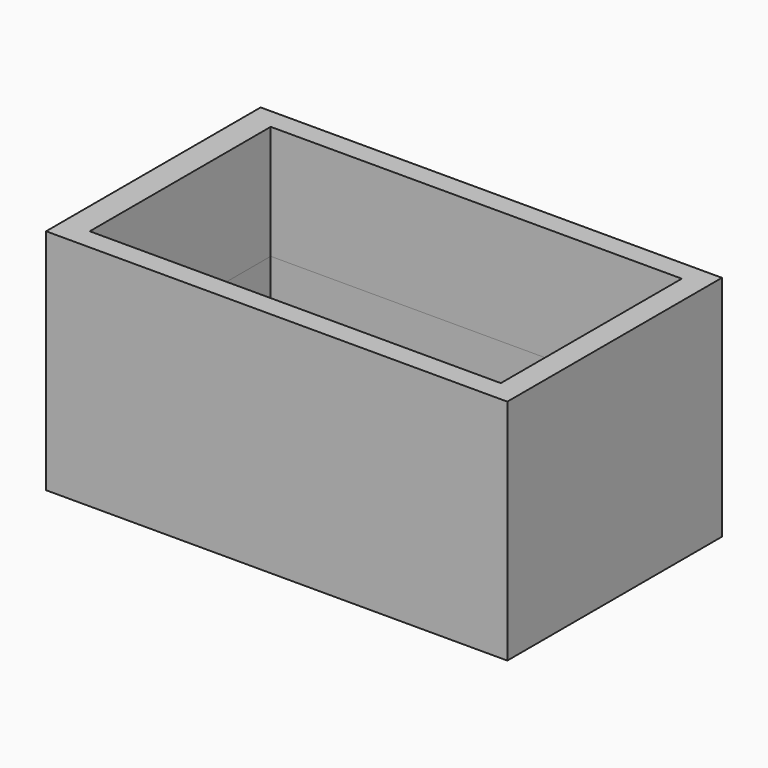
from build123d import *

# Parameters (mm, degrees)
F0_W        = 102.782786
F0_H        = 59.772734
F0_W_2      = 91.602149
F0_H_2      = 50.407235
F1_DEPTH    = 25.4
F1_FACE_W   = 102.782786
F1_FACE_H   = 59.772734
F1_FACE_W_2 = 91.602148
F1_FACE_H_2 = 50.407235
F2_DEPTH    = 25.4


with BuildPart() as f1:
    # F0 (on Top) → F1 (new body)
    with BuildSketch(Plane.XY):
        with Locations((51.391393, 29.886367)):
            Rectangle(F0_W, F0_H)
        with Locations((51.73838, 29.946198)):
            Rectangle(F0_W_2, F0_H_2, mode=Mode.SUBTRACT)
    extrude(amount=F1_DEPTH)

    # F1_face (on face) → F2 (join)
    with BuildSketch(Plane(origin=(50.341605, 29.70535, 25.4), x_dir=(1, 0, 0), z_dir=(0, 0, 1))):
        with Locations((1.049788, 0.181017)):
            Rectangle(F1_FACE_W, F1_FACE_H)
        with Locations((1.396775, 0.240849)):
            Rectangle(F1_FACE_W_2, F1_FACE_H_2, mode=Mode.SUBTRACT)
    extrude(amount=F2_DEPTH)


solid = f1.part
